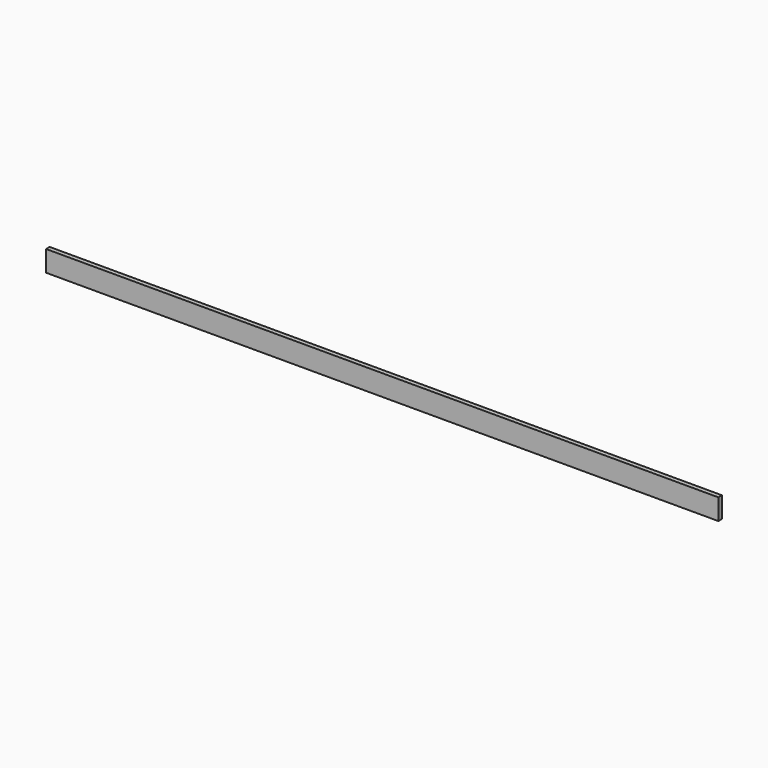
from build123d import *

# Parameters (mm, degrees)
F0_W     = 75
F0_H     = 14
F0_W_2   = 150
F1_DEPTH = 3


with BuildPart() as f1:
    # F0 (on Front) → F1 (new body)
    with BuildSketch(Plane.XZ):
        with Locations((31.688856, 28.273027)):
            Rectangle(F0_W, F0_H)
        with Locations((106.688856, 28.273027)):
            Rectangle(F0_W, F0_H)
        with Locations((219.188856, 28.273027)):
            Rectangle(F0_W_2, F0_H)
        with Locations((331.688856, 28.273027)):
            Rectangle(F0_W, F0_H)
        with Locations((406.688856, 28.273027)):
            Rectangle(F0_W, F0_H)
    extrude(amount=F1_DEPTH)


solid = f1.part
